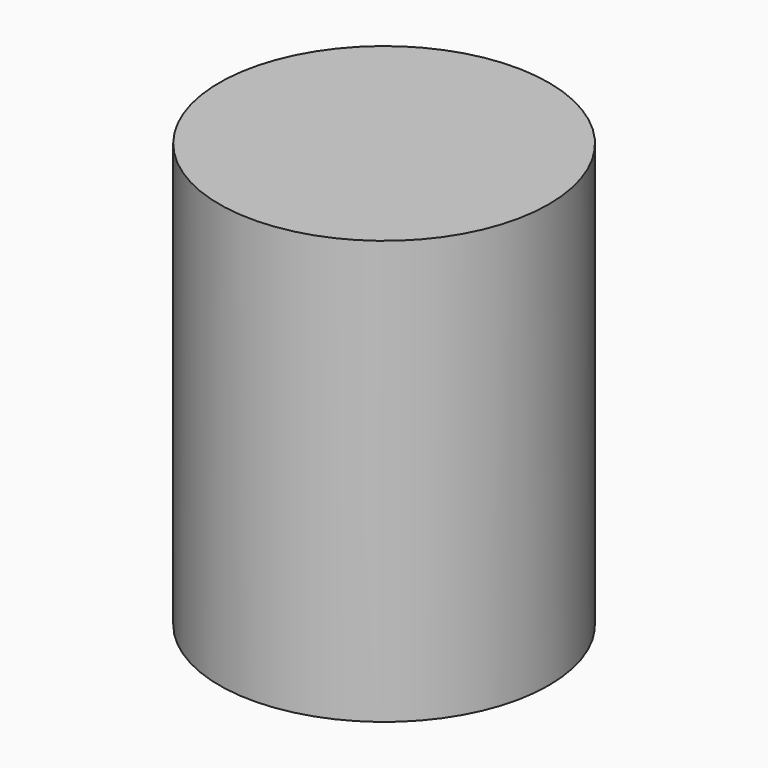
from build123d import *

# Parameters (mm, degrees)
F0_R      = 70
F1_DEPTH  = 180
F2_R      = 65
F3_DEPTH  = 40
F5_R      = 15
F5_R_2    = 12.5
F5_R_3    = 10
F6_DEPTH  = 125
F8_R      = 65
F9_DEPTH  = 130
F10_R     = 2.5
F11_DEPTH = 2


with BuildPart() as f1:
    # F0 (on Top) → F1 (new body)
    with BuildSketch(Plane.XY):
        Circle(F0_R)
    extrude(amount=F1_DEPTH)

    # F2 (on face) → F3 (cut)
    with BuildSketch(Plane(origin=(0, 0, 0), x_dir=(1, 0, 0), z_dir=(0, 0, -1))):
        Circle(F2_R)
    extrude(amount=-F3_DEPTH, mode=Mode.SUBTRACT)

    # F5 (on offset) → F6 (cut)
    with BuildSketch(Plane.XY.offset(40)):
        with Locations((40, 0)):
            Circle(F5_R)
        with Locations((-40, 0)):
            Circle(F5_R)
        with Locations((0, 40)):
            Circle(F5_R_2)
        with Locations((0, -40)):
            Circle(F5_R_2)
        with Locations((-28, 28.565714)):
            Circle(F5_R_3)
        with Locations((27.423085, -29.12)):
            Circle(F5_R_3)
        with Locations((-29.12, -27.423085)):
            Circle(F5_R_3)
        with Locations((28.565714, 28)):
            Circle(F5_R_3)
    extrude(amount=F6_DEPTH, mode=Mode.SUBTRACT)

    # F8 (on offset) → F9 (cut)
    with BuildSketch(Plane.XY.offset(45)):
        Circle(F8_R)
    extrude(amount=F9_DEPTH, mode=Mode.SUBTRACT)

    # F10 (on face) → F11 (join)
    with BuildSketch(Plane(origin=(0, 0, 40), x_dir=(1, 0, 0), z_dir=(0, 0, -1))):
        Circle(F10_R)
    extrude(amount=F11_DEPTH)


solid = f1.part
